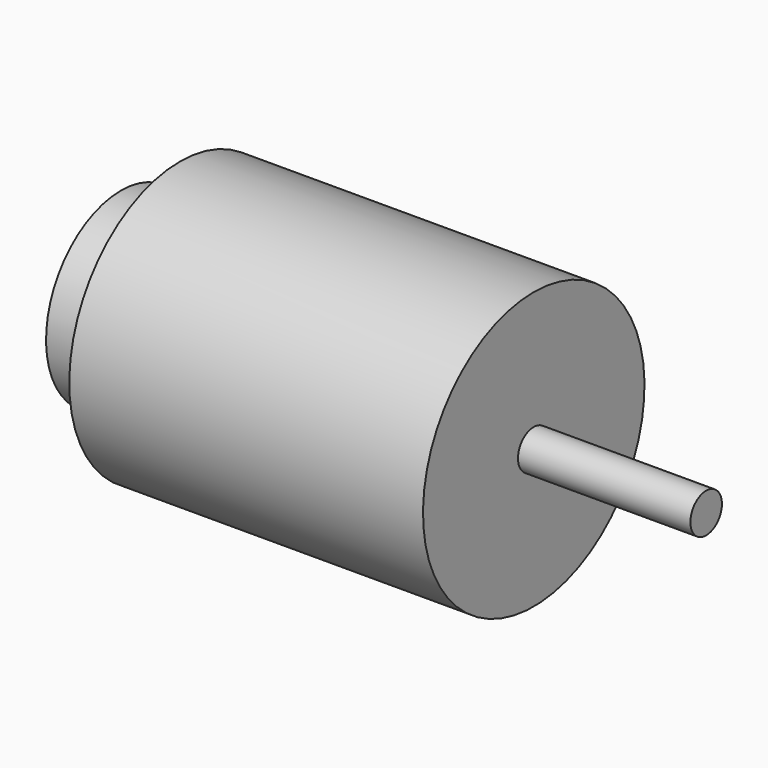
from build123d import *

# Parameters (mm, degrees)
F0_W   = 6
F0_H   = 9.5
F0_W_2 = 17.5
F0_H_2 = 2


with BuildPart() as f1:
    # F0 (on Front) → F1 (revolve)
    with BuildSketch(Plane.XZ):
        Polygon((0, 14.05), (-35.9, 14.05), (-35.9, 9.5), (-35.9, 0), (0, 0), (0, 2), align=None)
        with Locations((-38.9, 4.75)):
            Rectangle(F0_W, F0_H)
        with Locations((8.75, 1)):
            Rectangle(F0_W_2, F0_H_2)
    revolve(axis=Axis((-20.95, 0, 0), (-1, 0, 0)))


solid = f1.part
